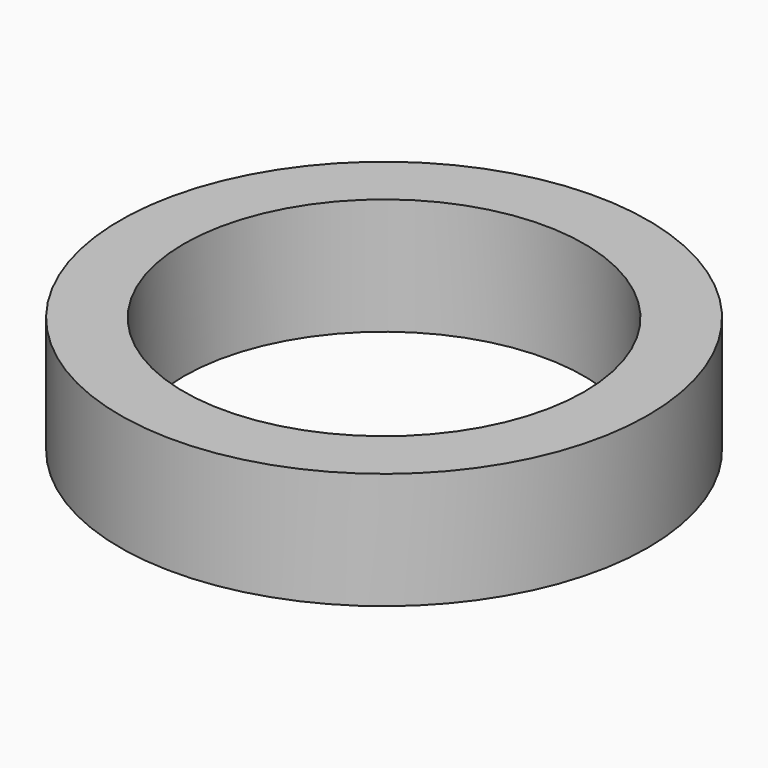
from build123d import *

# Parameters (mm, degrees)
F0_R          = 3.625
F1_DEPTH      = 0.8
F2_R          = 2.75
F3_DEPTH      = 0.801
F3_DEPTH_BACK = 0.801


with BuildPart() as f1:
    # F0 (on Top) → F1 (new body, symmetric)
    with BuildSketch(Plane.XY):
        Circle(F0_R)
    extrude(amount=F1_DEPTH, both=True)

    # F2 (on Top) → F3 (cut, two sides)
    with BuildSketch(Plane.XY) as f3_sk:
        Circle(F2_R)
    extrude(amount=-F3_DEPTH, mode=Mode.SUBTRACT)
    extrude(f3_sk.sketch, amount=F3_DEPTH_BACK, mode=Mode.SUBTRACT)


solid = f1.part
